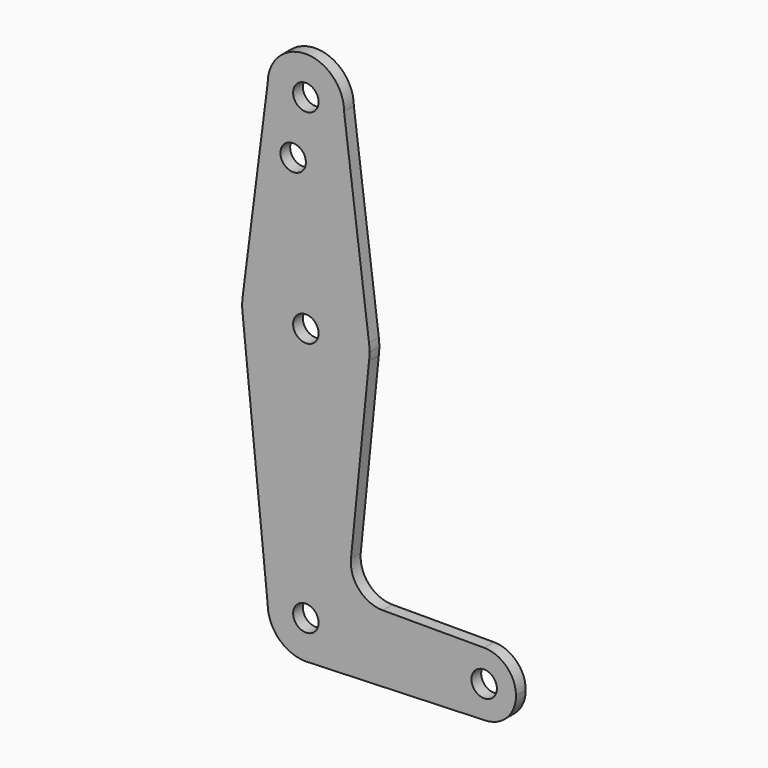
from build123d import *

# Parameters (mm, degrees)
F0_R     = 3.175
F1_DEPTH = 3.048


with BuildPart() as f1:
    # F0 (on Front) → F1 (new body)
    with BuildSketch(Plane.XZ):
        with BuildLine():
            ThreePointArc((-9.525, 114.3), (0, 104.775), (9.525, 114.3))
            ThreePointArc((9.525, 114.3), (0, 123.825), (-9.525, 114.3))
        make_face()
        with Locations((0, 114.3)):
            Circle(F0_R, mode=Mode.SUBTRACT)
        with BuildLine():
            Line((15.747457, 65.508289), (9.525, 114.3))
            ThreePointArc((9.525, 114.3), (0, 104.775), (-9.525, 114.3))
            Line((-9.525, 114.3), (-15.747457, 65.508289))
            ThreePointArc((-15.747457, 65.508289), (0, 79.375), (15.747457, 65.508289))
        make_face()
        with Locations((-3.175, 100.0252)):
            Circle(F0_R, mode=Mode.SUBTRACT)
        with BuildLine():
            ThreePointArc((15.875, 63.5), (15.843082, 64.506168), (15.747457, 65.508289))
            ThreePointArc((15.747457, 65.508289), (0, 79.375), (-15.747457, 65.508289))
            ThreePointArc((-15.747457, 65.508289), (-15.875, 63.5), (-15.747457, 61.491711))
            ThreePointArc((-15.747457, 61.491711), (0, 47.625), (15.747457, 61.491711))
            ThreePointArc((15.747457, 61.491711), (15.843082, 62.493832), (15.875, 63.5))
        make_face()
        with Locations((0, 63.5)):
            Circle(F0_R, mode=Mode.SUBTRACT)
        with BuildLine():
            ThreePointArc((15.747457, 61.491711), (0, 47.625), (-15.747457, 61.491711))
            Line((-15.747457, 61.491711), (-9.525, 0))
            ThreePointArc((-9.525, 0), (0, 9.525), (9.525, 0))
            ThreePointArc((9.525, 0), (6.970557, -6.491299), (0.677344, -9.500886))
            Line((0.677344, -9.500886), (44.732405, -7.932475))
            ThreePointArc((44.732405, -7.932475), (36.513756, -0.141225), (44.45, 7.9375))
            Line((44.45, 7.9375), (19.158407, 7.9375))
            ThreePointArc((19.158407, 7.9375), (13.262621, 10.554278), (11.247987, 16.682008))
            Line((11.247987, 16.682008), (15.747457, 61.491711))
        make_face()
        with BuildLine():
            ThreePointArc((9.525, 0), (0, 9.525), (-9.525, 0))
            ThreePointArc((-9.525, 0), (-6.735192, -6.735192), (0, -9.525))
            Line((0, -9.525), (0.677344, -9.500886))
            ThreePointArc((0.677344, -9.500886), (6.970557, -6.491299), (9.525, 0))
        make_face()
        Circle(F0_R, mode=Mode.SUBTRACT)
        with BuildLine():
            Line((0.677344, -9.500886), (0, -9.525))
            ThreePointArc((0, -9.525), (0.338886, -9.51897), (0.677344, -9.500886))
        make_face()
        with BuildLine():
            ThreePointArc((52.3875, 0), (50.06266, 5.61266), (44.45, 7.9375))
            ThreePointArc((44.45, 7.9375), (36.513756, -0.141225), (44.732405, -7.932475))
            ThreePointArc((44.732405, -7.932475), (50.161633, -5.51191), (52.3875, 0))
        make_face()
        with Locations((44.45, 0)):
            Circle(F0_R, mode=Mode.SUBTRACT)
    extrude(amount=F1_DEPTH)


solid = f1.part
